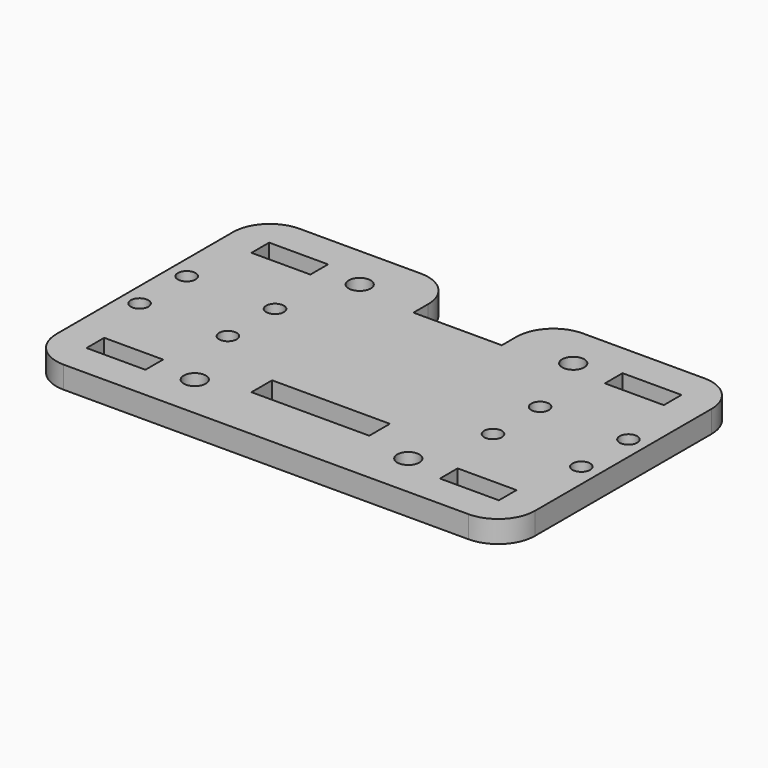
from build123d import *

# Parameters (mm, degrees)
F1_W     = 65
F1_H     = 40
F1_W_2   = 8
F1_H_2   = 3
F1_R     = 1.5
F1_W_3   = 16
F1_H_3   = 3.5
F2_DEPTH = 3
F4_D     = 2.4
F5_W     = 12
F5_H     = 7.5
F6_DEPTH = 25
F7_R     = 5


with BuildPart() as f2:
    # F1 (on Top) → F2 (new body)
    with BuildSketch(Plane.XY):
        Rectangle(F1_W, F1_H)
        with Locations((-24, -14)):
            Rectangle(F1_W_2, F1_H_2, mode=Mode.SUBTRACT)
        with Locations((-14.5, -14)):
            Circle(F1_R, mode=Mode.SUBTRACT)
        with Locations((0, -10.75)):
            Rectangle(F1_W_3, F1_H_3, mode=Mode.SUBTRACT)
        with Locations((14.5, -14)):
            Circle(F1_R, mode=Mode.SUBTRACT)
        with Locations((24, -14)):
            Rectangle(F1_W_2, F1_H_2, mode=Mode.SUBTRACT)
        with Locations((-24, 14)):
            Rectangle(F1_W_2, F1_H_2, mode=Mode.SUBTRACT)
        with Locations((-14.5, 14)):
            Circle(F1_R, mode=Mode.SUBTRACT)
        with Locations((14.5, 14)):
            Circle(F1_R, mode=Mode.SUBTRACT)
        with Locations((24, 14)):
            Rectangle(F1_W_2, F1_H_2, mode=Mode.SUBTRACT)
    extrude(amount=F2_DEPTH)

    # F4 (through all)
    with Locations(Plane.XY.offset(3)):
        with Locations((-30, 4), (-30, -4), (-18, 4), (-18, -4), (18, 4), (18, -4), (30, 4), (30, -4)):
            Hole(F4_D / 2)

    # F5 (on face) → F6 (cut)
    with BuildSketch(Plane.XY.offset(3)):
        with Locations((0, 16.25)):
            Rectangle(F5_W, F5_H)
    extrude(amount=-F6_DEPTH, mode=Mode.SUBTRACT)

    # F7
    f7_edges = [f2.edges().sort_by_distance(p)[0] for p in [
        (-32.5, -20, 1.5),
        (-32.5, 20, 1.5),
        (32.5, -20, 1.5),
        (32.5, 20, 1.5),
        (-6, 20, 1.5),
        (6, 20, 1.5),
    ]]
    fillet(f7_edges, radius=F7_R)


solid = f2.part
